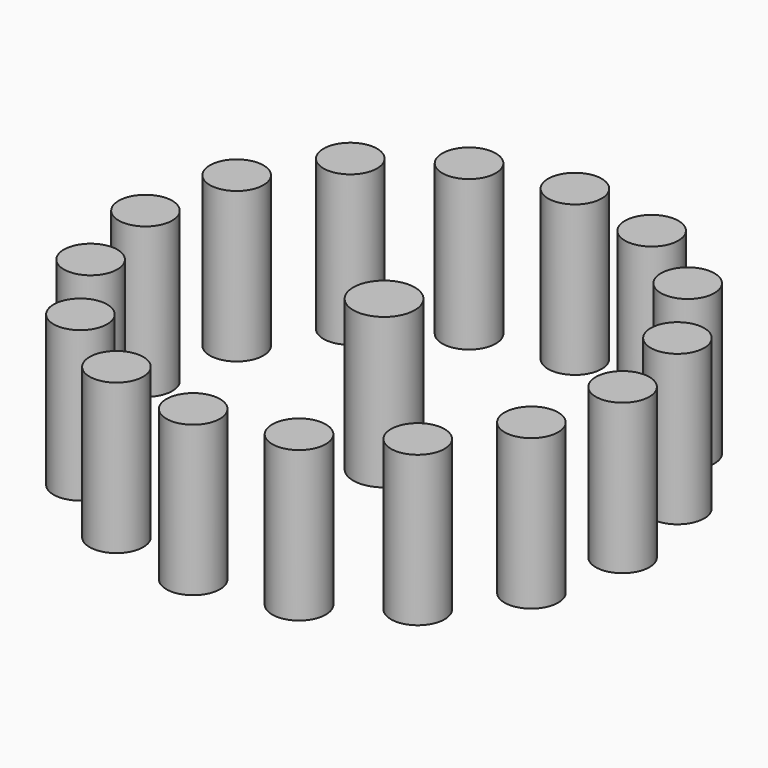
from build123d import *

# Parameters (mm, degrees)
F0_R     = 2.5
F0_R_2   = 2.874861
F1_DEPTH = 14


with BuildPart() as f1:
    # F0 (on Top) → F1 (new body)
    with BuildSketch(Plane.XY):
        with Locations((8.514706, 20.55632)):
            Circle(F0_R)
        with Locations((20.55632, 8.514706)):
            Circle(F0_R)
        with Locations((15.733126, 15.733126)):
            Circle(F0_R)
        with Locations((0, 22.25)):
            Circle(F0_R)
        with Locations((-8.514706, 20.55632)):
            Circle(F0_R)
        with Locations((-15.733126, 15.733126)):
            Circle(F0_R)
        with Locations((-20.55632, 8.514706)):
            Circle(F0_R)
        with Locations((-22.25, 0)):
            Circle(F0_R)
        with Locations((-20.55632, -8.514706)):
            Circle(F0_R)
        with Locations((-15.733126, -15.733126)):
            Circle(F0_R)
        with Locations((-8.514706, -20.55632)):
            Circle(F0_R)
        with Locations((0, -22.25)):
            Circle(F0_R)
        with Locations((8.514706, -20.55632)):
            Circle(F0_R)
        with Locations((15.733126, -15.733126)):
            Circle(F0_R)
        with Locations((20.55632, -8.514706)):
            Circle(F0_R)
        with Locations((22.25, 0)):
            Circle(F0_R)
        Circle(F0_R_2)
    extrude(amount=F1_DEPTH)


solid = f1.part
